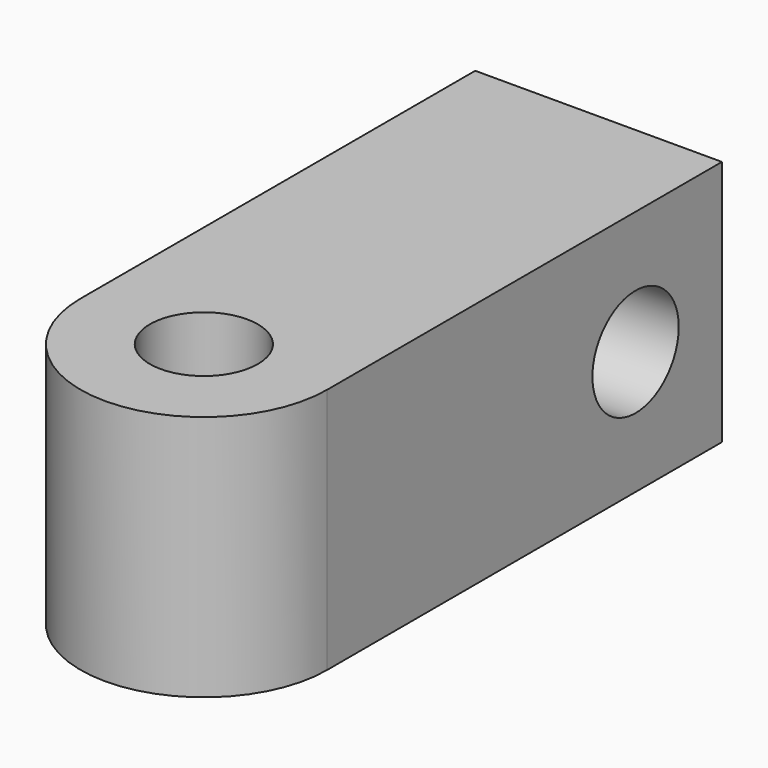
from build123d import *

# Parameters (mm, degrees)
F0_R     = 1.75
F1_DEPTH = 8
F2_R     = 1.75
F3_DEPTH = 20


with BuildPart() as f1:
    # F0 (on Top) → F1 (new body)
    with BuildSketch(Plane.XY):
        with BuildLine():
            Line((-4, 16), (-4, 0))
            ThreePointArc((-4, 0), (0, -4), (4, 0))
            Line((4, 0), (4, 16))
            Line((4, 16), (-4, 16))
        make_face()
        Circle(F0_R, mode=Mode.SUBTRACT)
    extrude(amount=F1_DEPTH)

    # F2 (on face) → F3 (cut)
    with BuildSketch(Plane.YZ.offset(4)):
        with Locations((12.5, 4)):
            Circle(F2_R)
    extrude(amount=-F3_DEPTH, mode=Mode.SUBTRACT)


solid = f1.part
